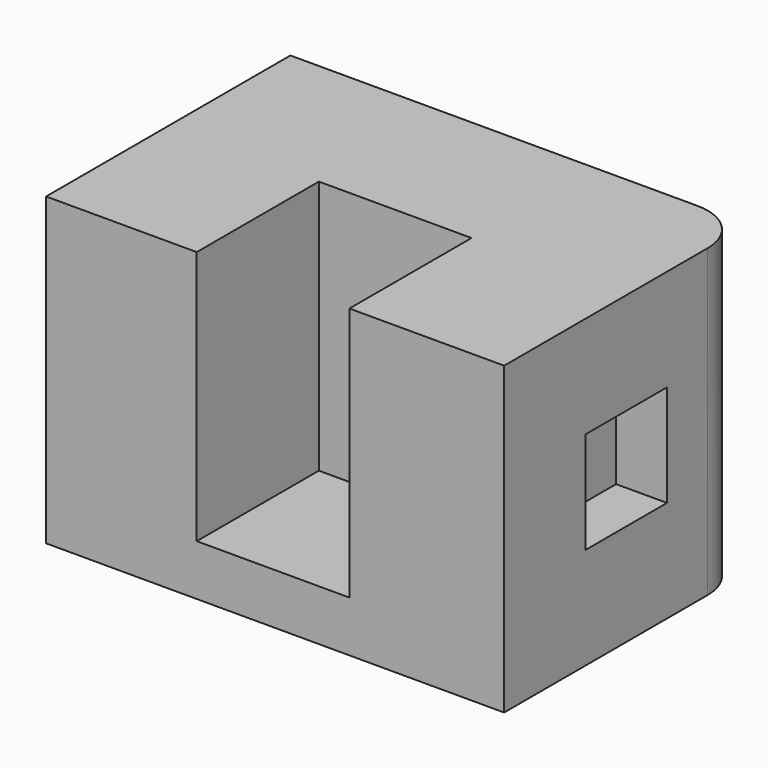
from build123d import *

# Parameters (mm, degrees)
F0_W     = 228.6
F0_H     = 152.4
F1_DEPTH = 76.2
F2_W     = 76.2
F2_H     = 127
F3_DEPTH = 76.2
F4_R     = 25.4
F5_W     = 50.8
F5_H     = 50.8
F6_DEPTH = 25.4


with BuildPart() as f1:
    # F0 (on Front) → F1 (new body, symmetric)
    with BuildSketch(Plane.XZ):
        Rectangle(F0_W, F0_H)
    extrude(amount=F1_DEPTH, both=True)

    # F2 (on face) → F3 (cut)
    with BuildSketch(Plane.XZ.offset(76.2)):
        with Locations((-1.026415, 12.7)):
            Rectangle(F2_W, F2_H)
    extrude(amount=-F3_DEPTH, mode=Mode.SUBTRACT)

    # F4
    f4_edges = [f1.edges().sort_by_distance(p)[0] for p in [
        (114.3, 76.2, 0),
    ]]
    fillet(f4_edges, radius=F4_R)

    # F5 (on face) → F6 (cut)
    with BuildSketch(Plane.YZ.offset(114.3)):
        Rectangle(F5_W, F5_H)
    extrude(amount=-F6_DEPTH, mode=Mode.SUBTRACT)


solid = f1.part
